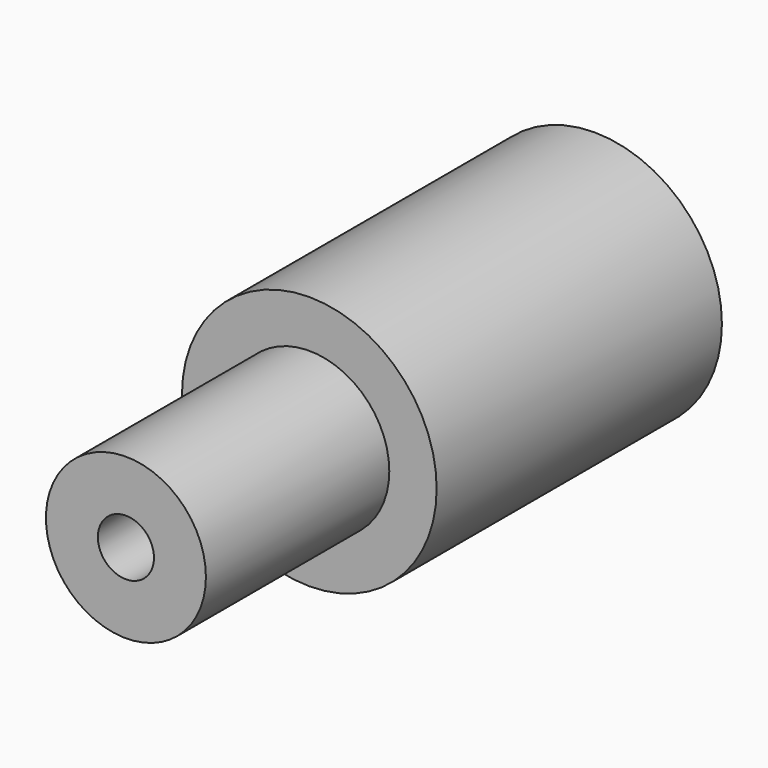
from build123d import *

# Parameters (mm, degrees)
F0_R     = 25
F1_DEPTH = 70
F2_R     = 15.702302
F3_DEPTH = 45
F4_R     = 5.506821
F5_DEPTH = 115.001


with BuildPart() as f1:
    # F0 (on Front) → F1 (new body)
    with BuildSketch(Plane.XZ):
        Circle(F0_R)
    extrude(amount=F1_DEPTH)

    # F2 (on face) → F3 (join)
    with BuildSketch(Plane.XZ.offset(70)):
        Circle(F2_R)
    extrude(amount=F3_DEPTH)

    # F4 (on face) → F5 (cut, through all)
    with BuildSketch(Plane.XZ.offset(115)):
        Circle(F4_R)
        Polygon((-39.301679, 0), (-54.846372, 51.766761), (-54.846372, 0), align=None)
    extrude(amount=-F5_DEPTH, mode=Mode.SUBTRACT)


solid = f1.part
